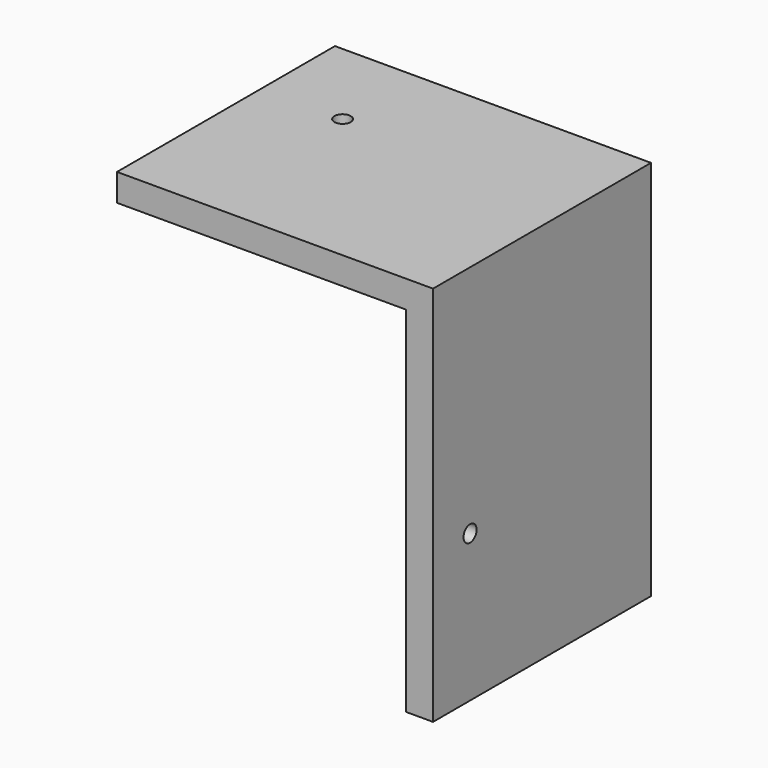
from build123d import *

# Parameters (mm, degrees)
F1_DEPTH = 127
F2_R     = 3.81
F3_DEPTH = 25.4
F4_R     = 3.81
F5_DEPTH = 25.4


with BuildPart() as f1:
    # F0 (on Front) → F1 (new body)
    with BuildSketch(Plane.XZ):
        Polygon((-134.62, 0), (0, 0), (0, -165.1), (12.7, -165.1), (12.7, 12.7), (-134.62, 12.7), align=None)
    extrude(amount=F1_DEPTH)

    # F2 (on face) → F3 (cut)
    with BuildSketch(Plane(origin=(0, 0, 0), x_dir=(1, 0, 0), z_dir=(0, 0, -1))):
        with Locations((-96.52, 43.188728)):
            Circle(F2_R)
    extrude(amount=-F3_DEPTH, mode=Mode.SUBTRACT)

    # F4 (on face) → F5 (cut)
    with BuildSketch(Plane(origin=(0, 0, 0), x_dir=(0, -1, 0), z_dir=(-1, 0, 0))):
        with Locations((105.41, -96.52)):
            Circle(F4_R)
    extrude(amount=-F5_DEPTH, mode=Mode.SUBTRACT)


solid = f1.part
